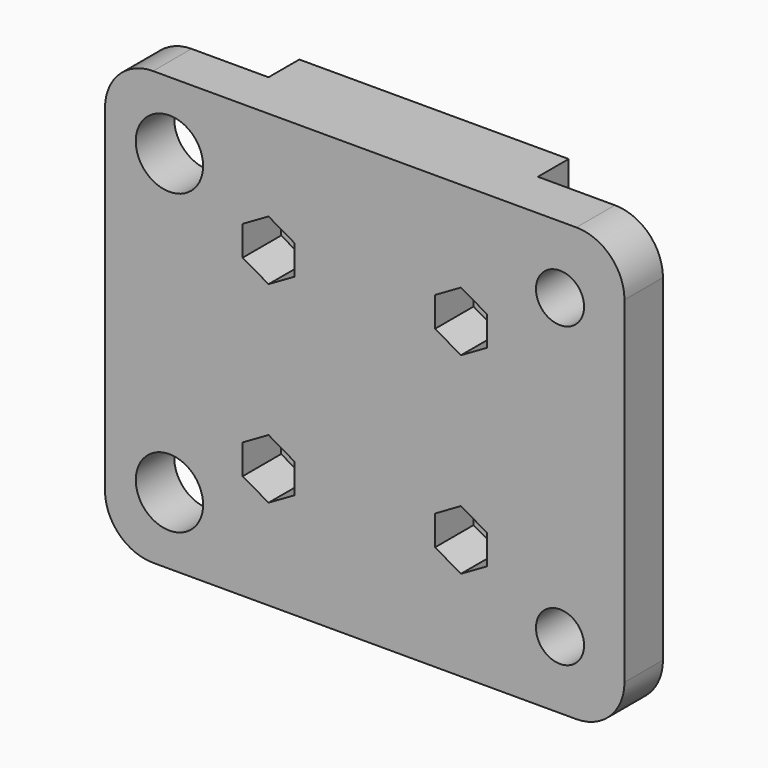
from build123d import *

# Parameters (mm, degrees)
SKETCH005_W   = 54
SKETCH005_H   = 45
SKETCH005_R   = 3.5
SKETCH005_R_2 = 2.5
PAD001_DEPTH  = 5
FILLET_R      = 5
POCKET_DEPTH  = 5
SKETCH007_R   = 1.5
PAD002_DEPTH  = 4
CHAMFER_SIZE  = 3.99
FILLET001_R   = 12


with BuildPart() as part:
    # Sketch005 → Pad001 (new body)
    with BuildSketch(Plane.XZ):
        with Locations((0, 25.5)):
            Rectangle(SKETCH005_W, SKETCH005_H)
        with Locations((-20.3, 41)):
            Circle(SKETCH005_R, mode=Mode.SUBTRACT)
        with Locations((-20.3, 10)):
            Circle(SKETCH005_R, mode=Mode.SUBTRACT)
        with Locations((20.3, 10)):
            Circle(SKETCH005_R_2, mode=Mode.SUBTRACT)
        with Locations((20.3, 41)):
            Circle(SKETCH005_R_2, mode=Mode.SUBTRACT)
    extrude(amount=PAD001_DEPTH)

    # Fillet
    fillet_edges = [part.edges().sort_by_distance(p)[0] for p in [
        (-27, -2.5, 48),
        (-27, -2.5, 3),
        (27, -2.5, 48),
        (27, -2.5, 3),
    ]]
    fillet(fillet_edges, radius=FILLET_R)

    # Sketch006 (on Face2 of Fillet) → Pocket (cut)
    with BuildSketch(Plane(origin=(0, 0, 0), x_dir=(1, 0, 0), z_dir=(0, 1, 0))):
        Polygon((-7.315321, -17.05), (-7.315321, -13.95), (-10, -12.4), (-12.684679, -13.95), (-12.684679, -17.05), (-10, -18.6), align=None)
        Polygon((-7.315321, -33.95), (-10, -32.4), (-12.684679, -33.95), (-12.684679, -37.05), (-10, -38.6), (-7.315321, -37.05), align=None)
        Polygon((12.684679, -37.05), (12.684679, -33.95), (10, -32.4), (7.315321, -33.95), (7.315321, -37.05), (10, -38.6), align=None)
        Polygon((12.684679, -17.05), (12.684679, -13.95), (10, -12.4), (7.315321, -13.95), (7.315321, -17.05), (10, -18.6), align=None)
    extrude(amount=-POCKET_DEPTH, mode=Mode.SUBTRACT)

    # Sketch007 (on Face2 of Pocket) → Pad002 (join)
    with BuildSketch(Plane(origin=(0, 0, 0), x_dir=(1, 0, 0), z_dir=(0, 1, 0))):
        Polygon((-14, -3), (14, -3), (14, -24.5), (27, -24.5), (27, -28.5), (14, -28.5), (14, -48), (-14, -48), (-14, -27.5), (-27, -27.5), (-27, -23.5), (-14, -23.5), align=None)
        with Locations((-10, -15.5)):
            Circle(SKETCH007_R, mode=Mode.SUBTRACT)
        with Locations((10, -15.5)):
            Circle(SKETCH007_R, mode=Mode.SUBTRACT)
        with Locations((-10, -35.5)):
            Circle(SKETCH007_R, mode=Mode.SUBTRACT)
        with Locations((10, -35.5)):
            Circle(SKETCH007_R, mode=Mode.SUBTRACT)
    extrude(amount=PAD002_DEPTH)

    # Chamfer
    chamfer_edges = [part.edges().sort_by_distance(p)[0] for p in [
        (27, 4, 26.5),
        (-27, 4, 25.5),
    ]]
    chamfer(chamfer_edges, length=CHAMFER_SIZE)

    # Fillet001
    fillet001_edges = [part.edges().sort_by_distance(p)[0] for p in [
        (23.01, 4, 26.5),
        (-23.01, 4, 25.5),
    ]]
    fillet(fillet001_edges, radius=FILLET001_R)


with BuildPart() as part_1:
    # Body005 placement: moved
    add(part.part.moved(Location((0, 16.5, 0))))


solid = part_1.part
